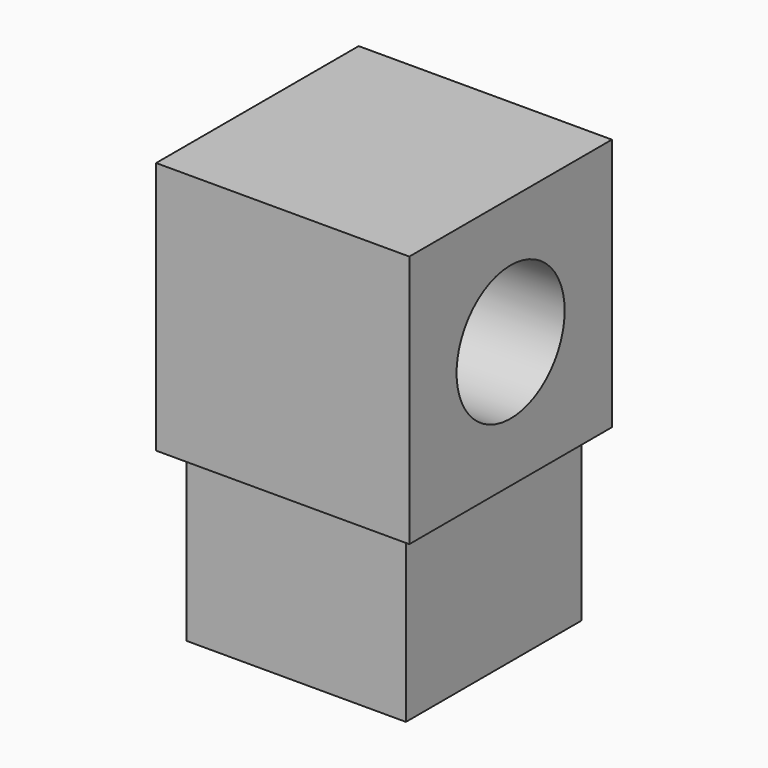
from build123d import *

# Parameters (mm, degrees)
F0_W     = 13
F0_H     = 13
F1_DEPTH = 10
F2_W     = 15
F2_H     = 15
F2_W_2   = 13
F2_H_2   = 13
F3_DEPTH = 15
F4_R     = 4
F5_DEPTH = 25


with BuildPart() as f1:
    # F0 (on Top) → F1 (new body)
    with BuildSketch(Plane.XY):
        Rectangle(F0_W, F0_H)
    extrude(amount=F1_DEPTH)

    # F2 (on face) → F3 (join)
    with BuildSketch(Plane.XY.offset(10)):
        Rectangle(F2_W, F2_H)
        Rectangle(F2_W_2, F2_H_2, mode=Mode.SUBTRACT)
        Rectangle(F2_W_2, F2_H_2)
    extrude(amount=F3_DEPTH)

    # F4 (on face) → F5 (cut)
    with BuildSketch(Plane.YZ.offset(7.5)):
        with Locations((0, 17.5)):
            Circle(F4_R)
    extrude(amount=-F5_DEPTH, mode=Mode.SUBTRACT)


solid = f1.part
